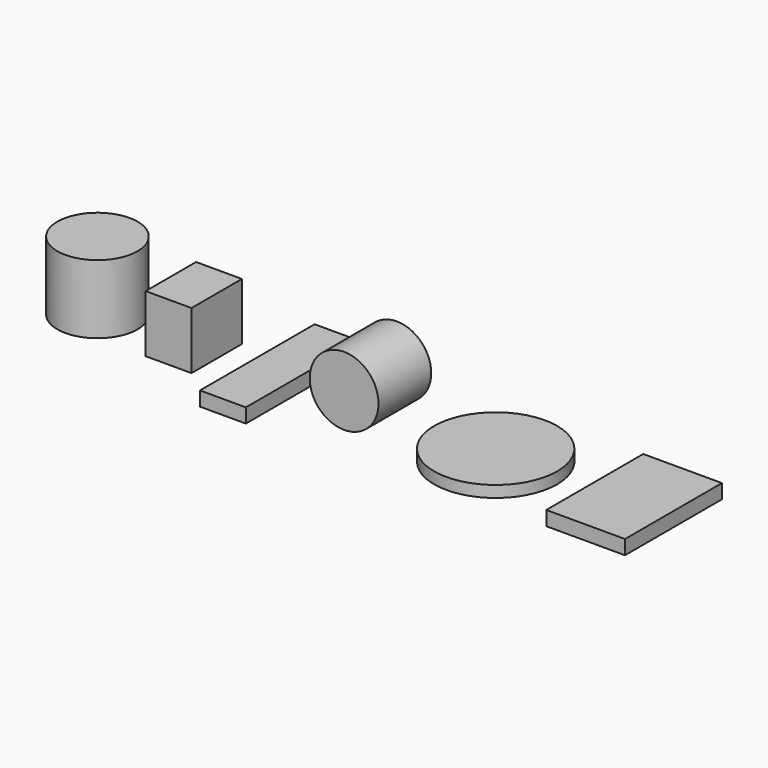
from build123d import *

# Parameters (mm, degrees)
F0_R          = 70
F1_DEPTH      = 120
F2_W          = 80
F2_H          = 110
F3_DEPTH      = 100
F4_W          = 80
F4_H          = 250
F5_DEPTH      = 25
F6_R          = 60
F7_DEPTH      = 55
F7_DEPTH_BACK = 60
F8_R          = 107.288389
F9_DEPTH      = 20
F10_W         = 137.351155
F10_H         = 211.380974
F11_DEPTH     = 25


with BuildPart() as f1:
    # F0 (on Top) → F1 (new body)
    with BuildSketch(Plane.XY):
        with Locations((-108.999747, 0)):
            Circle(F0_R)
    extrude(amount=F1_DEPTH)


with BuildPart() as f3:
    # F2 (on Top) → F3 (new body)
    with BuildSketch(Plane.XY):
        with Locations((59.051738, 0)):
            Rectangle(F2_W, F2_H)
    extrude(amount=F3_DEPTH)


with BuildPart() as f5:
    # F4 (on Top) → F5 (new body)
    with BuildSketch(Plane.XY):
        with Locations((209.931925, 0)):
            Rectangle(F4_W, F4_H)
    extrude(amount=F5_DEPTH)


with BuildPart() as f7:
    # F6 (on Front) → F7 (new body, two sides)
    with BuildSketch(Plane.XZ) as f7_sk:
        with Locations((365.380824, 59.364893)):
            Circle(F6_R)
    extrude(amount=F7_DEPTH)
    extrude(f7_sk.sketch, amount=-F7_DEPTH_BACK)


with BuildPart() as f9:
    # F8 (on Top) → F9 (new body)
    with BuildSketch(Plane.XY):
        with Locations((585.802436, 0)):
            Circle(F8_R)
    extrude(amount=F9_DEPTH)


with BuildPart() as f11:
    # F10 (on Top) → F11 (new body)
    with BuildSketch(Plane.XY):
        with Locations((827.357828, 0)):
            Rectangle(F10_W, F10_H)
    extrude(amount=F11_DEPTH)


solid = Compound([f1.part, f3.part, f5.part, f7.part, f9.part, f11.part])
